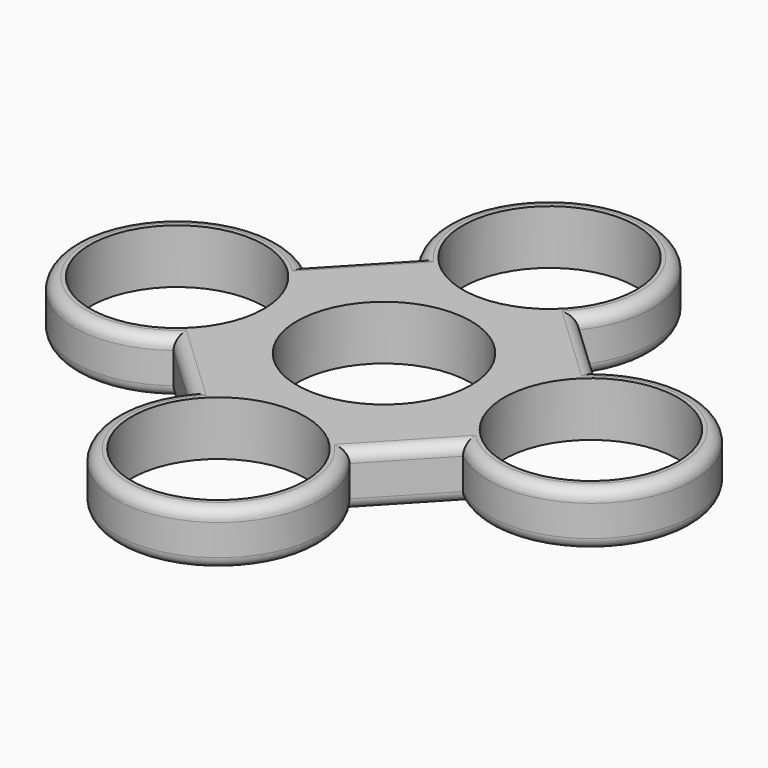
from build123d import *

# Parameters (mm, degrees)
F0_R     = 11.2
F1_DEPTH = 7
F2_R     = 1.5
F3_R     = 1.5


with BuildPart() as f1:
    # F0 (on Top) → F1 (new body)
    with BuildSketch(Plane.XY):
        with BuildLine():
            Line((18.704077, 10.528055), (10.324213, 18.441492))
            ThreePointArc((10.324213, 18.441492), (0.166209, 39.865446), (-10.528055, 18.704077))
            Line((-10.528055, 18.704077), (-18.441492, 10.324213))
            ThreePointArc((-18.441492, 10.324213), (-39.865446, 0.166209), (-18.704077, -10.528055))
            Line((-18.704077, -10.528055), (-10.324213, -18.441492))
            ThreePointArc((-10.324213, -18.441492), (-0.166209, -39.865446), (10.528055, -18.704077))
            Line((10.528055, -18.704077), (18.441492, -10.324213))
            ThreePointArc((18.441492, -10.324213), (39.865446, -0.166209), (18.704077, 10.528055))
        make_face()
        with Locations((0, -26.666492)):
            Circle(F0_R, mode=Mode.SUBTRACT)
        with Locations((-26.666492, 0)):
            Circle(F0_R, mode=Mode.SUBTRACT)
        Circle(F0_R, mode=Mode.SUBTRACT)
        with Locations((26.666492, 0)):
            Circle(F0_R, mode=Mode.SUBTRACT)
        with Locations((0, 26.666492)):
            Circle(F0_R, mode=Mode.SUBTRACT)
    extrude(amount=F1_DEPTH)

    # F2
    f2_edges = [f1.edges().sort_by_distance(p)[0] for p in [
        (14.484773, -14.514145, 0),
        (39.865446, -0.166209, 0),
        (14.514145, 14.484773, 0),
        (0.166209, 39.865446, 0),
        (-14.484773, 14.514145, 0),
        (-39.865446, 0.166209, 0),
        (-14.514145, -14.484773, 0),
        (-0.166209, -39.865446, 0),
    ]]
    fillet(f2_edges, radius=F2_R)

    # F3
    f3_edges = [f1.edges().sort_by_distance(p)[0] for p in [
        (0.166209, 39.865446, 7),
        (14.514145, 14.484773, 7),
        (39.865446, -0.166209, 7),
        (14.484773, -14.514145, 7),
        (-0.166209, -39.865446, 7),
        (-14.514145, -14.484773, 7),
        (-39.865446, 0.166209, 7),
        (-14.484773, 14.514145, 7),
    ]]
    fillet(f3_edges, radius=F3_R)


solid = f1.part
